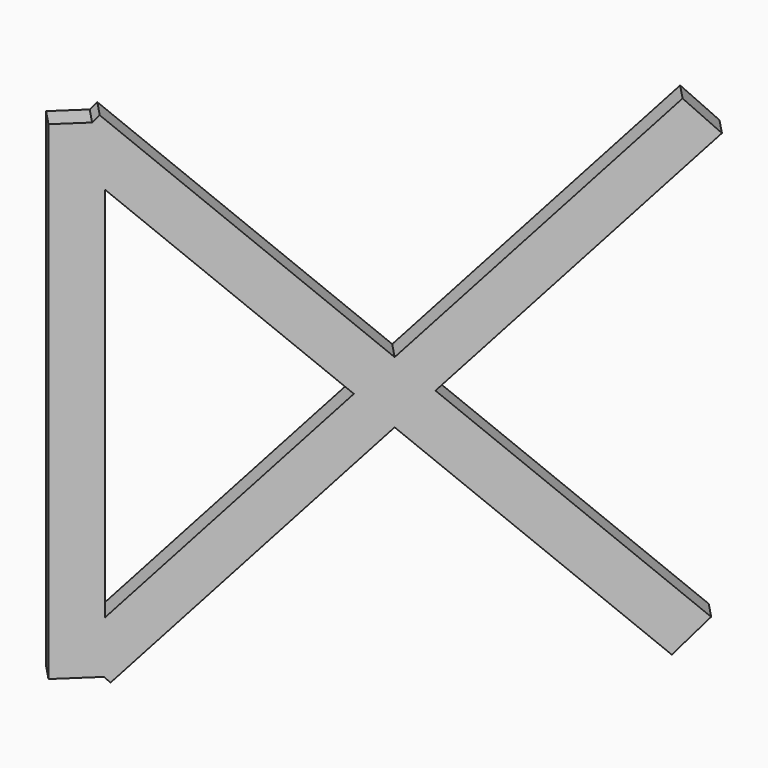
from build123d import *

# Parameters (mm, degrees)
BOX244_W                  = 0.5
BOX244_H                  = 1
BOX244_DEPTH              = 15
BOX244_ROLL_ANGLE         = 46
BOX245_W                  = 0.5
BOX245_H                  = 1
BOX245_DEPTH              = 15
BOX245_ROLL_ANGLE         = -46
BOX243_W                  = 0.5
BOX243_H                  = 1
BOX243_DEPTH              = 11
FUSION024_PLACEMENT_ANGLE = 46.5


with BuildPart() as cubo244:
    # Box244 → Box244 (new body)
    with BuildSketch(Plane.XY):
        with Locations((0.25, 0.5)):
            Rectangle(BOX244_W, BOX244_H)
    extrude(amount=BOX244_DEPTH)


with BuildPart() as cubo244_1:
    # Box244 roll: moved
    add(cubo244.part.rotate(Axis((0, 0, 0), (1, 0, 0)), BOX244_ROLL_ANGLE))


with BuildPart() as cubo244_2:
    # Box244 placement: moved
    add(cubo244_1.part.moved(Location((0, 11, 0.5))))


with BuildPart() as cubo245:
    # Box245 → Box245 (new body)
    with BuildSketch(Plane.XY):
        with Locations((0.25, 0.5)):
            Rectangle(BOX245_W, BOX245_H)
    extrude(amount=BOX245_DEPTH)


with BuildPart() as cubo245_1:
    # Box245 roll: moved
    add(cubo245.part.rotate(Axis((0, 0, 0), (1, 0, 0)), BOX245_ROLL_ANGLE))


with BuildPart() as cubo245_2:
    # Box245 placement: moved
    add(cubo245_1.part.moved(Location((0, 0.4, 1.1))))


with BuildPart() as fusion024:
    # Box243 → Box243 (new body)
    with BuildSketch(Plane.XY.offset(0.5)):
        with Locations((0.25, 0.5)):
            Rectangle(BOX243_W, BOX243_H)
    extrude(amount=BOX243_DEPTH)

    # Fusion024: union Cubo244, Cubo245
    add(cubo244_2.part)
    add(cubo245_2.part)


with BuildPart() as fusion024_1:
    # Fusion024 placement: moved
    add(fusion024.part.moved(Location((-163.4, 167.7, 0))).rotate(Axis((-163.4, 167.7, 0), (0, 0, -1)), FUSION024_PLACEMENT_ANGLE))


solid = fusion024_1.part
